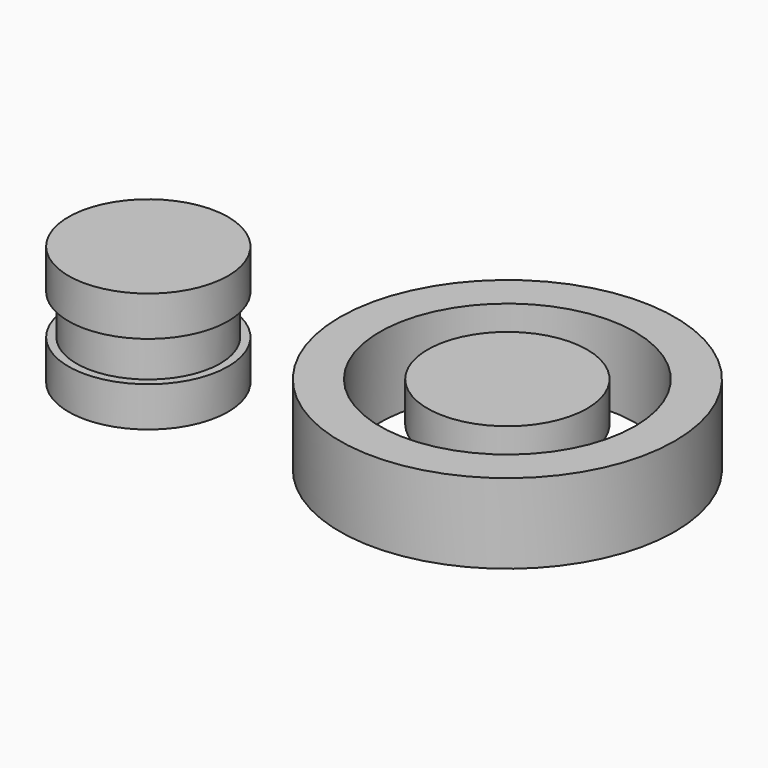
from build123d import *

# Parameters (mm, degrees)
F0_R      = 10
F0_R_2    = 4
F1_DEPTH  = 5
F2_DEPTH  = 10
F3_R      = 10
F3_R_2    = 4
F4_DEPTH  = 5
F5_DEPTH  = 4
F0_R_3    = 21
F0_R_4    = 16
F6_DEPTH  = 10
F0_R_5    = 9
F7_DEPTH  = 5
F9_DEPTH  = 10
F10_R     = 10
F11_DEPTH = 5


with BuildPart() as f1:
    # F0 (on Top) → F1 (new body)
    with BuildSketch(Plane.XY):
        Circle(F0_R)
        Circle(F0_R_2, mode=Mode.SUBTRACT)
        Circle(F0_R_2)
    extrude(amount=-F1_DEPTH)

    # F0 (on Top) → F5 (cut)
    with BuildSketch(Plane.XY):
        Circle(F0_R_2)
    extrude(amount=-F5_DEPTH, mode=Mode.SUBTRACT)


with BuildPart() as f2:
    # F0 (on Top) → F2 (new body)
    with BuildSketch(Plane.XY):
        Circle(F0_R_2)
    extrude(amount=F2_DEPTH)

    # F3 (on face) → F4 (join)
    with BuildSketch(Plane.XY.offset(10)):
        Circle(F3_R)
        Circle(F3_R_2, mode=Mode.SUBTRACT)
    extrude(amount=-F4_DEPTH)


with BuildPart() as f6:
    # F0 (on Top) → F6 (new body)
    with BuildSketch(Plane.XY):
        Circle(F0_R_3)
        Circle(F0_R_4, mode=Mode.SUBTRACT)
    extrude(amount=F6_DEPTH)


with BuildPart() as f7:
    # F0 (on Top) → F7 (new body)
    with BuildSketch(Plane.XY):
        with Locations((-45, 0)):
            Circle(F0_R)
        with Locations((-45, 0)):
            Circle(F0_R_5, mode=Mode.SUBTRACT)
        with Locations((-45, 0)):
            Circle(F0_R_5)
    extrude(amount=-F7_DEPTH)

    # F0 (on Top) → F9 (join)
    with BuildSketch(Plane.XY):
        with Locations((-45, 0)):
            Circle(F0_R_5)
    extrude(amount=F9_DEPTH)

    # F10 (on offset) → F11 (join)
    with BuildSketch(Plane.XY.offset(5)):
        with Locations((-45, 0)):
            Circle(F10_R)
    extrude(amount=F11_DEPTH)


solid = Compound([f1.part, f2.part, f6.part, f7.part])
